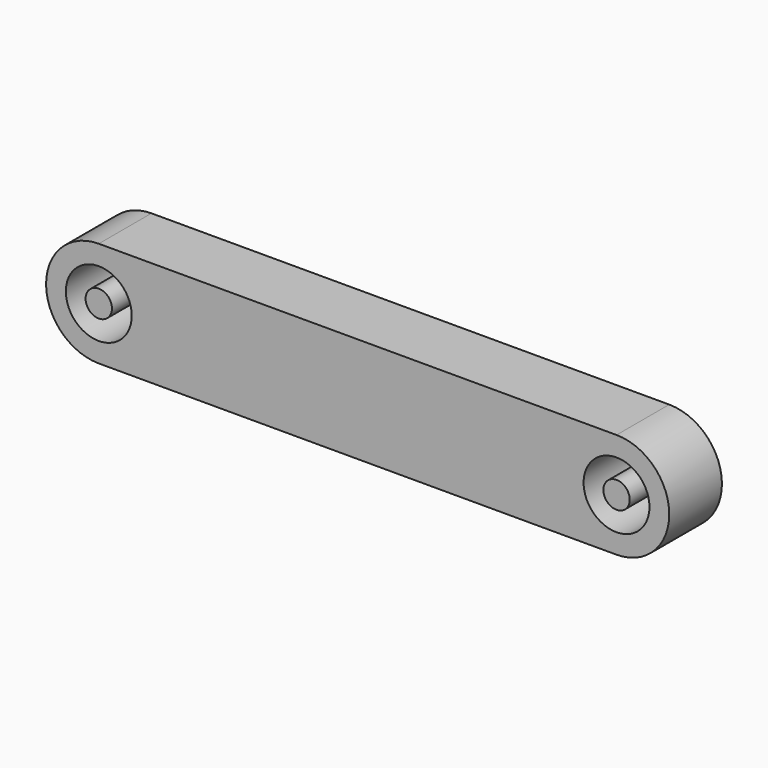
from build123d import *

# Parameters (mm, degrees)
F0_R     = 2.5
F0_R_2   = 1
F1_DEPTH = 5


with BuildPart() as f1:
    # F0 (on Front) → F1 (new body)
    with BuildSketch(Plane.XZ):
        with BuildLine():
            ThreePointArc((0, 4), (-4, 0), (0, -4))
            Line((0, -4), (39.3, -4))
            ThreePointArc((39.3, -4), (43.3, 0), (39.3, 4))
            Line((39.3, 4), (0, 4))
        make_face()
        Circle(F0_R, mode=Mode.SUBTRACT)
        with Locations((39.3, 0)):
            Circle(F0_R, mode=Mode.SUBTRACT)
        Circle(F0_R_2)
        with Locations((39.3, 0)):
            Circle(F0_R_2)
    extrude(amount=F1_DEPTH)


solid = f1.part
